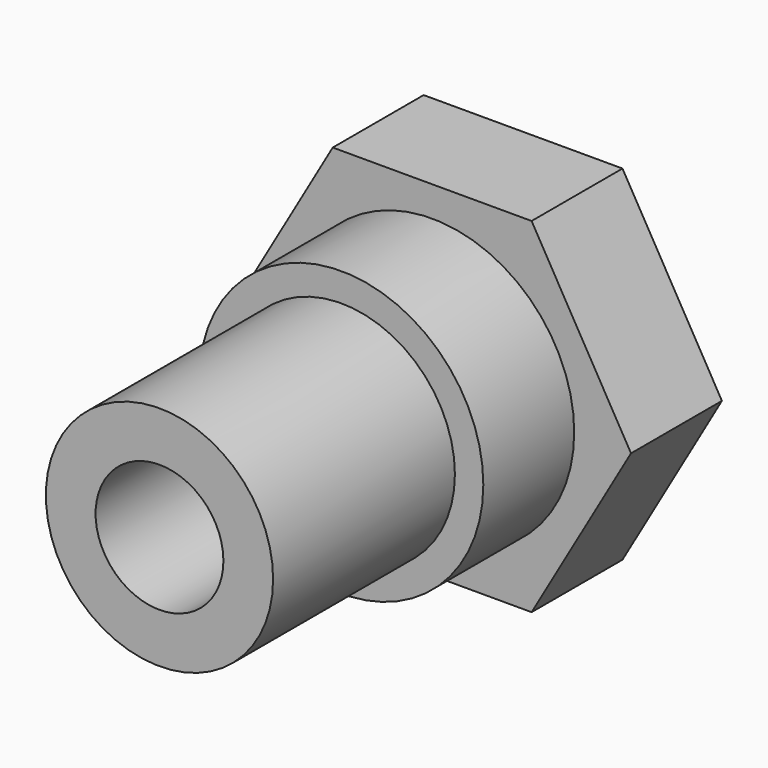
from build123d import *

# Parameters (mm, degrees)
SKETCH_R      = 2.25
PAD_DEPTH     = 4
SKETCH001_R   = 5
SKETCH001_R_2 = 2.25
PAD001_DEPTH  = 4
SKETCH004_R   = 4
SKETCH004_R_2 = 2.25
PAD004_DEPTH  = 8


with BuildPart() as part:
    # Sketch → Pad (new body)
    with BuildSketch(Plane.XZ):
        Polygon((7, 0), (3.5, 6.062178), (-3.5, 6.062178), (-7, 0), (-3.5, -6.062178), (3.5, -6.062178), align=None)
        Circle(SKETCH_R, mode=Mode.SUBTRACT)
    extrude(amount=PAD_DEPTH)

    # Sketch001 (on Face9 of Pad) → Pad001 (join)
    with BuildSketch(Plane.XZ.offset(4)):
        Circle(SKETCH001_R)
        Circle(SKETCH001_R_2, mode=Mode.SUBTRACT)
    extrude(amount=PAD001_DEPTH)

    # Sketch004 (on Face12 of Pad001) → Pad004 (join)
    with BuildSketch(Plane.XZ.offset(8)):
        Circle(SKETCH004_R)
        Circle(SKETCH004_R_2, mode=Mode.SUBTRACT)
    extrude(amount=PAD004_DEPTH)


with BuildPart() as part_1:
    # Body placement: moved
    add(part.part.moved(Location((20, 168, 61))))


solid = part_1.part
